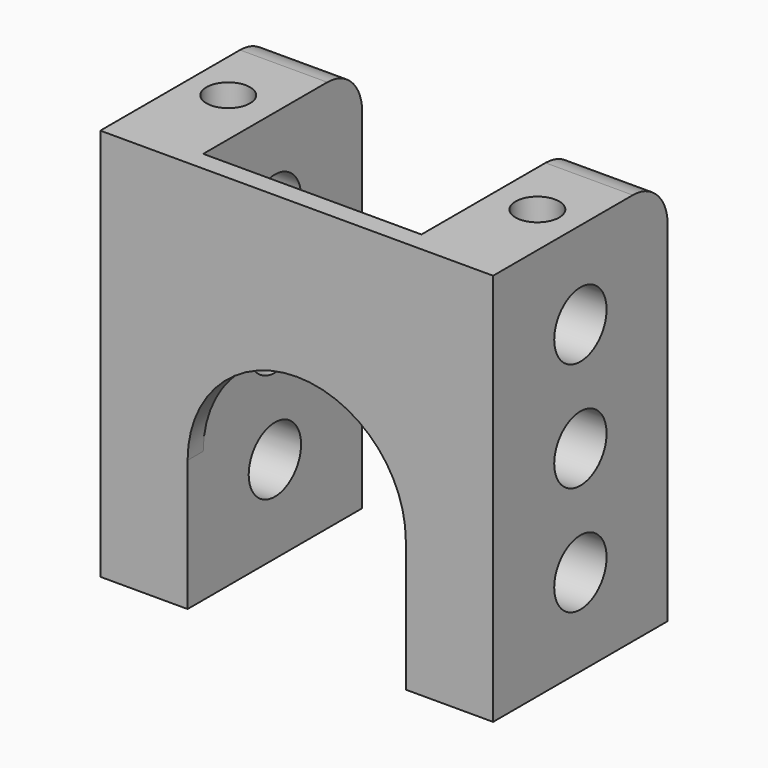
from build123d import *

# Parameters (mm, degrees)
F1_DEPTH = 114.3
F2_R     = 9.525
F3_DEPTH = 114.301
F5_DEPTH = 5.6779
F6_R     = 12.7
F7_R     = 6.35
F8_DEPTH = 12.7


with BuildPart() as f1:
    # F0 (on Top) → F1 (new body)
    with BuildSketch(Plane.XY):
        Polygon((-31.75, 57.8231), (-57.15, 57.8231), (-57.15, -5.6769), (57.15, -5.6769), (57.15, 57.8231), (31.75, 57.8231), (31.75, 0), (-31.75, 0), align=None)
    extrude(amount=F1_DEPTH)

    # F2 (on face) → F3 (cut, through all)
    with BuildSketch(Plane(origin=(-57.15, 0, 0), x_dir=(0, -1, 0), z_dir=(-1, 0, 0))):
        with Locations((-26.0731, 25.4)):
            Circle(F2_R)
        with Locations((-26.0731, 88.9)):
            Circle(F2_R)
        with Locations((-26.0731, 57.15)):
            Circle(F2_R)
    extrude(amount=-F3_DEPTH, mode=Mode.SUBTRACT)

    # F4 (on face) → F5 (cut, through all)
    with BuildSketch(Plane(origin=(0, 0, 0), x_dir=(-1, 0, 0), z_dir=(0, 1, 0))):
        with BuildLine():
            Line((-31.75, 38.1), (-31.75, 0))
            Line((-31.75, 0), (31.75, 0))
            Line((31.75, 0), (31.75, 38.1))
            ThreePointArc((31.75, 38.1), (0, 69.85), (-31.75, 38.1))
        make_face()
    extrude(amount=-F5_DEPTH, mode=Mode.SUBTRACT)

    # F6
    f6_edges = [f1.edges().sort_by_distance(p)[0] for p in [
        (44.45, 57.8231, 114.3),
        (-44.45, 57.8231, 114.3),
    ]]
    fillet(f6_edges, radius=F6_R)

    # F7 (on face) → F8 (cut)
    with BuildSketch(Plane.XY.offset(114.3)):
        with Locations((-45.326655, 26.0731)):
            Circle(F7_R)
        with Locations((44.637317, 26.0731)):
            Circle(F7_R)
    extrude(amount=-F8_DEPTH, mode=Mode.SUBTRACT)


solid = f1.part
